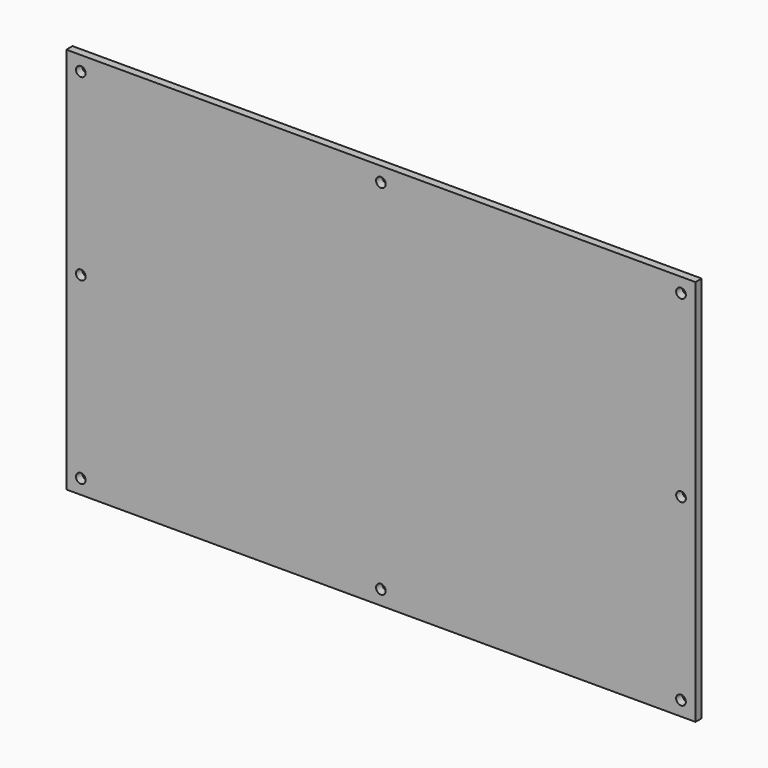
from build123d import *

# Parameters (mm, degrees)
F0_W     = 130
F0_H     = 80
F1_DEPTH = 1.6
F2_D     = 2


with BuildPart() as f1:
    # F0 (on Front) → F1 (new body)
    with BuildSketch(Plane.XZ):
        Rectangle(F0_W, F0_H)
    extrude(amount=-F1_DEPTH)

    # F2 (through all)
    with Locations(Plane.XZ):
        with Locations((-62, 37), (0, 37), (62, 37), (62, 0), (62, -37), (0, -37), (-62, -37), (-62, 0)):
            Hole(F2_D / 2)


solid = f1.part
